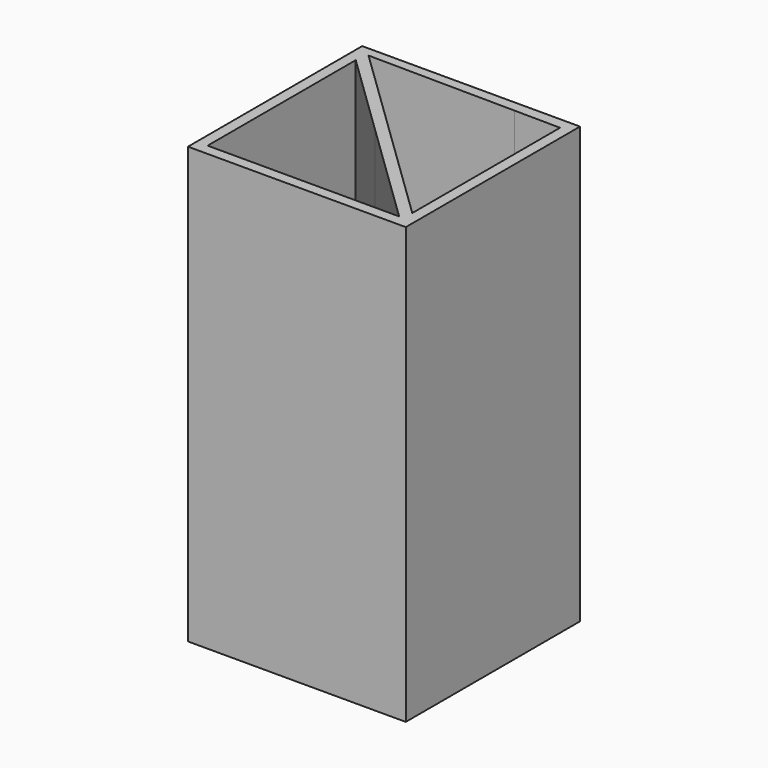
from build123d import *

# Parameters (mm, degrees)
F0_W     = 50.8
F0_H     = 50.8
F1_DEPTH = 101.6
F3_DEPTH = 99.06
F4_DEPTH = 99.06


with BuildPart() as f1:
    # F0 (on Top) → F1 (new body)
    with BuildSketch(Plane.XY):
        with Locations((25.4, 25.4)):
            Rectangle(F0_W, F0_H)
    extrude(amount=F1_DEPTH)

    # F2 (on face) → F3 (cut)
    with BuildSketch(Plane.XY.offset(101.6)):
        Polygon((2.54, 7.489045), (2.54, 2.545525), (18.157401, 2.54), (47.233673, 2.529714), (22.108479, 26.818483), (2.54, 45.735521), align=None)
    extrude(amount=-F3_DEPTH, mode=Mode.SUBTRACT)

    # F2 (on face) → F4 (cut)
    with BuildSketch(Plane.XY.offset(101.6)):
        Polygon((3.224171, 48.606943), (23.873876, 28.644674), (48.26, 5.070372), (48.26, 33.179211), (48.26, 48.151647), (37.52937, 48.26013), align=None)
    extrude(amount=-F4_DEPTH, mode=Mode.SUBTRACT)


solid = f1.part
